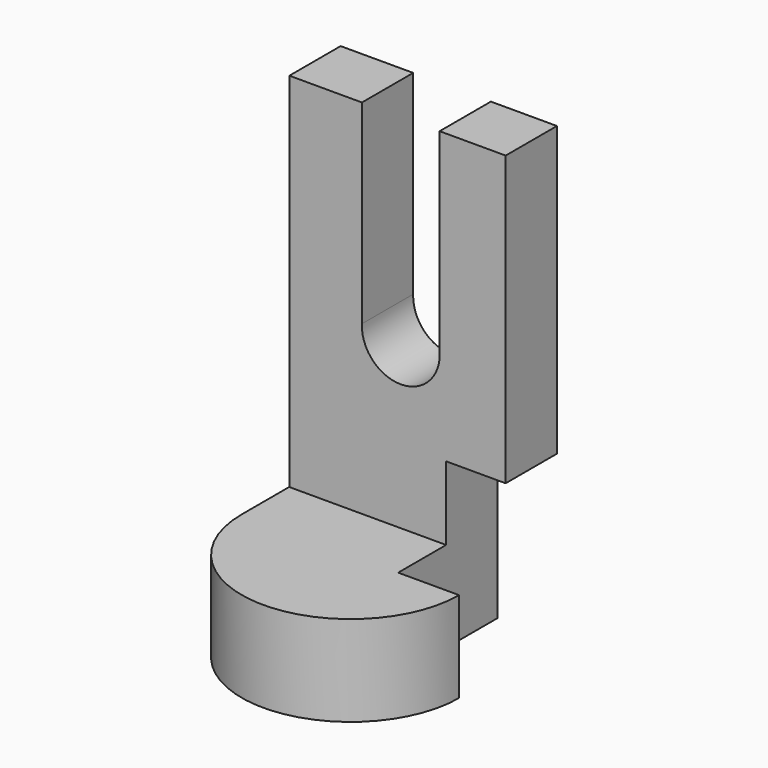
from build123d import *

# Parameters (mm, degrees)
F1_DEPTH  = 25.4
F2_W      = 60.9679538757
F2_H      = 16.9523619115
F3_DEPTH  = 25.4
F4_W      = 17.1053176746
F4_H      = 16.9523619115
F5_DEPTH  = 25.4
F6_W      = 60.6785267591
F6_H      = 17.9788209498
F7_DEPTH  = 127
F8_W      = 16.7008666322
F8_H      = 20.6584424436
F8_H_2    = 25.4
F9_DEPTH  = 25.4
F11_DEPTH = 25.4


with BuildPart() as f1:
    # F0 (on Top) → F1 (new body)
    with BuildSketch(Plane.XY):
        with BuildLine():
            Line((29.8158377409, 0), (-31.3191562891, 0))
            ThreePointArc((-31.3191562891, 0), (-0.7516592741, -30.4326055801), (29.8158377409, 0))
        make_face()
    extrude(amount=F1_DEPTH)

    # F2 (on Top) → F3 (join)
    with BuildSketch(Plane.XY):
        with Locations((-0.8351793513, 8.4761809558)):
            Rectangle(F2_W, F2_H)
    extrude(amount=F3_DEPTH)

    # F4 (on face) → F5 (cut)
    with BuildSketch(Plane.XY.offset(25.4)):
        with Locations((21.2631789036, 8.4761809558)):
            Rectangle(F4_W, F4_H)
    extrude(amount=-F5_DEPTH, mode=Mode.SUBTRACT)

    # F6 (on Top) → F7 (join)
    with BuildSketch(Plane.XY):
        with Locations((-0.9278766811, 25.8058961481)):
            Rectangle(F6_W, F6_H)
    extrude(amount=F7_DEPTH)

    # F8 (on face) → F9 (cut)
    with BuildSketch(Plane.XZ.offset(-16.8164856732)):
        with Locations((21.0609533824, 35.7292212218)):
            Rectangle(F8_W, F8_H)
        with Locations((21.0609533824, 12.7)):
            Rectangle(F8_W, F8_H_2)
    extrude(amount=-F9_DEPTH, mode=Mode.SUBTRACT)

    # F10 (on face) → F11 (cut)
    with BuildSketch(Plane.XZ.offset(-16.8164856732)):
        with BuildLine():
            Line((-10.910176672, 127), (-10.910176672, 72.342030704))
            ThreePointArc((-10.910176672, 72.342030704), (-0.6730834345, 60.9522454092), (10.8875039349, 70.9960547807))
            Line((10.8875039349, 70.9960547807), (10.8875039349, 127))
            Line((10.8875039349, 127), (-10.910176672, 127))
        make_face()
    extrude(amount=-F11_DEPTH, mode=Mode.SUBTRACT)


solid = f1.part
